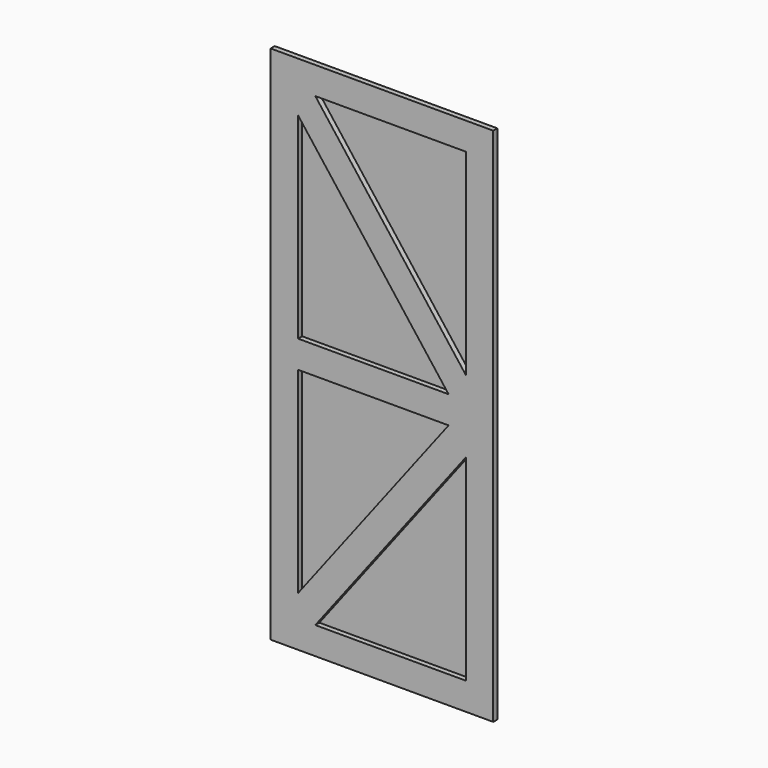
from build123d import *

# Parameters (mm, degrees)
F0_W     = 825.5
F0_H     = 1930.4
F1_DEPTH = 19.05
F2_W     = 723.9
F2_H     = 1828.8
F3_DEPTH = 12.7


with BuildPart() as f1:
    # F0 (on Front) → F1 (new body)
    with BuildSketch(Plane.XZ):
        with Locations((412.75, 965.2)):
            Rectangle(F0_W, F0_H)
        Polygon((101.6, 185.164932), (101.6, 914.4), (101.6, 965.2), (101.6, 1016), (101.6, 1745.235068), (101.6, 1828.8), (165.579401, 1828.8), (723.9, 1828.8), (723.9, 1099.564932), (723.9, 1016), (723.9, 965.2), (723.9, 914.4), (723.9, 830.835068), (723.9, 101.6), (165.579401, 101.6), (101.6, 101.6), align=None, mode=Mode.SUBTRACT)
        Polygon((101.6, 1828.8), (101.6, 1745.235068), (659.920599, 1016), (723.9, 1016), align=None)
        Polygon((101.6, 1828.8), (723.9, 1016), (723.9, 1099.564932), (165.579401, 1828.8), align=None)
        Polygon((101.6, 1016), (101.6, 965.2), (723.9, 965.2), (723.9, 1016), (659.920599, 1016), align=None)
        Polygon((101.6, 965.2), (101.6, 914.4), (659.920599, 914.4), (723.9, 914.4), (723.9, 965.2), align=None)
        Polygon((659.920599, 914.4), (101.6, 185.164932), (101.6, 101.6), (723.9, 914.4), align=None)
        Polygon((723.9, 914.4), (101.6, 101.6), (165.579401, 101.6), (723.9, 830.835068), align=None)
    extrude(amount=F1_DEPTH)

    # F2 (on face) → F3 (join)
    with BuildSketch(Plane(origin=(0, 0, 0), x_dir=(-1, 0, 0), z_dir=(0, 1, 0))):
        with Locations((-412.75, 965.2)):
            Rectangle(F2_W, F2_H)
    extrude(amount=F3_DEPTH)


solid = f1.part
